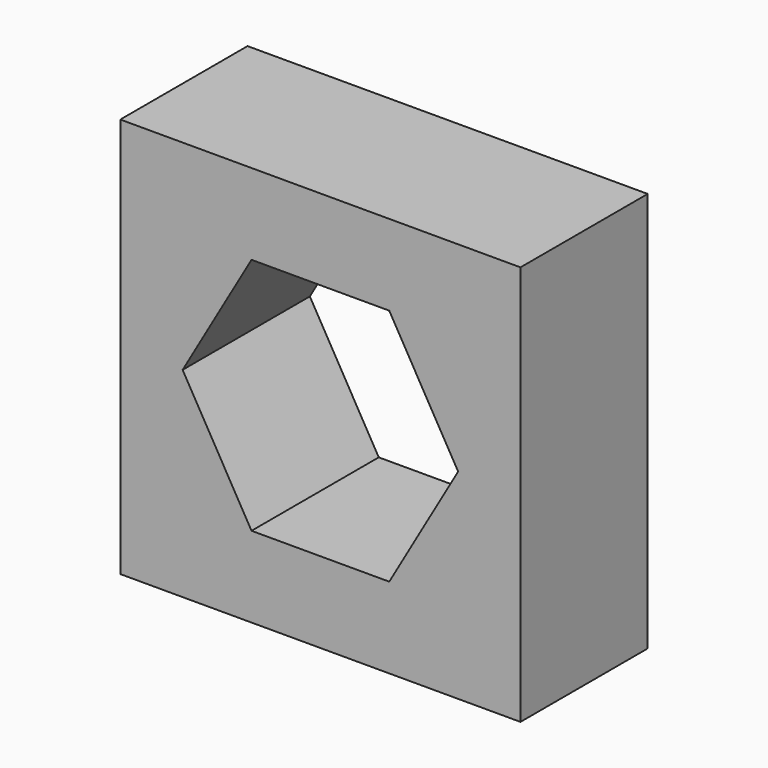
from build123d import *

# Parameters (mm, degrees)
F0_W     = 15.9766
F0_H     = 15.9766
F1_DEPTH = 6.35


with BuildPart() as f1:
    # F0 (on Front) → F1 (new body)
    with BuildSketch(Plane.XZ):
        Rectangle(F0_W, F0_H)
        Polygon((-2.749631, -4.7625), (-5.499261, 0), (-2.749631, 4.7625), (2.749631, 4.7625), (5.499261, 0), (2.749631, -4.7625), align=None, mode=Mode.SUBTRACT)
    extrude(amount=F1_DEPTH)


solid = f1.part
